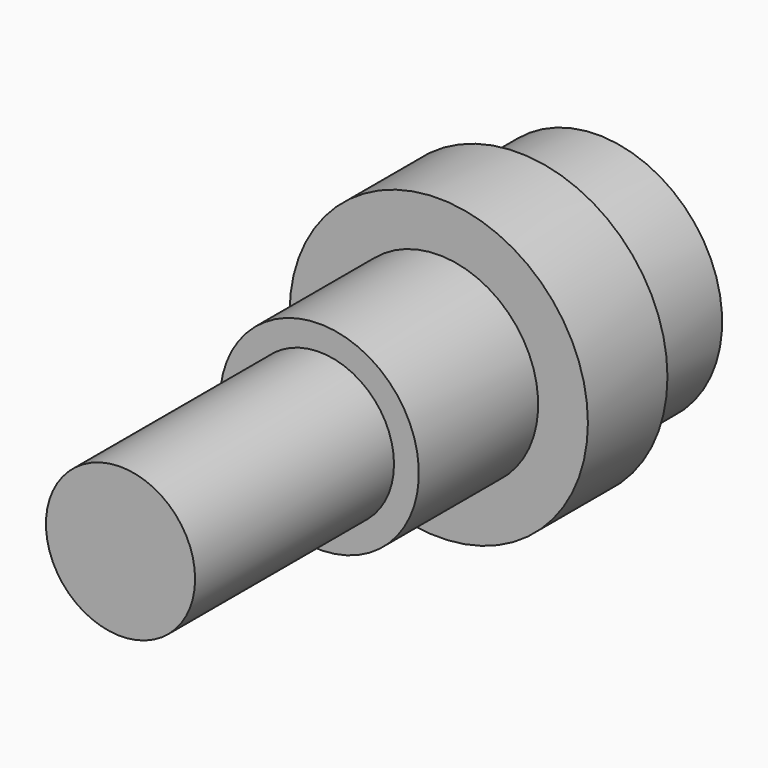
from build123d import *

# Parameters (mm, degrees)
F0_R     = 7.5
F1_DEPTH = 25
F2_R     = 10
F3_DEPTH = 15
F4_R     = 15
F5_DEPTH = 10
F6_R     = 12.5
F7_DEPTH = 10


with BuildPart() as f1:
    # F0 (on Front) → F1 (new body)
    with BuildSketch(Plane.XZ):
        Circle(F0_R)
    extrude(amount=F1_DEPTH)

    # F2 (on face) → F3 (join)
    with BuildSketch(Plane(origin=(0, 0, 0), x_dir=(-1, 0, 0), z_dir=(0, 1, 0))):
        Circle(F2_R)
    extrude(amount=F3_DEPTH)

    # F4 (on face) → F5 (join)
    with BuildSketch(Plane(origin=(0, 15, 0), x_dir=(-1, 0, 0), z_dir=(0, 1, 0))):
        Circle(F4_R)
    extrude(amount=F5_DEPTH)

    # F6 (on face) → F7 (join)
    with BuildSketch(Plane(origin=(0, 25, 0), x_dir=(-1, 0, 0), z_dir=(0, 1, 0))):
        Circle(F6_R)
    extrude(amount=F7_DEPTH)


solid = f1.part
